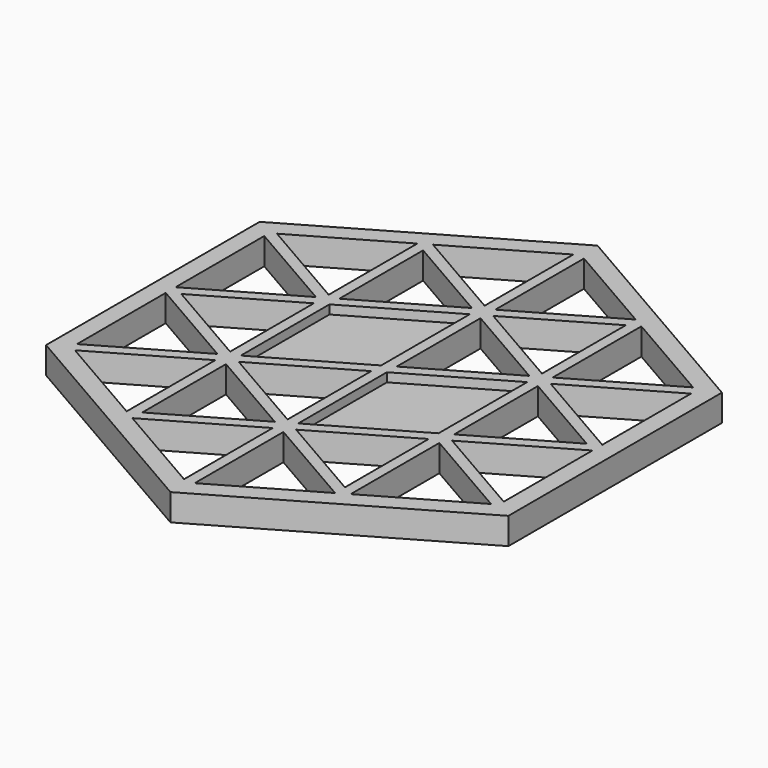
from build123d import *

# Parameters (mm, degrees)
F1_DEPTH = 3
F3_DEPTH = 2


with BuildPart() as f1:
    # F0 (on Top) → F1 (new body)
    with BuildSketch(Plane.XY):
        Polygon((25.980762, 15), (0, 30), (-25.980762, 15), (-25.980762, -15), (0, -30), (25.980762, -15), align=None)
        Polygon((-0.6, -14.88453), (-0.6, -27.344189), (-11.390381, -21.114359), align=None, mode=Mode.SUBTRACT)
        Polygon((-12.590381, -7.96188), (-12.590381, -20.421539), (-23.380762, -14.19171), align=None, mode=Mode.SUBTRACT)
        Polygon((-13.190381, -6.92265), (-23.980762, -13.152479), (-23.980762, -0.69282), align=None, mode=Mode.SUBTRACT)
        Polygon((-12.590381, -5.883419), (-22.780762, 0), (-12.590381, 5.883419), align=None, mode=Mode.SUBTRACT)
        Polygon((-1.2, -13.845299), (-11.390381, -19.728719), (-11.390381, -7.96188), align=None, mode=Mode.SUBTRACT)
        Polygon((-0.6, -1.03923), (-0.6, -12.806069), (-10.790381, -6.92265), align=None, mode=Mode.SUBTRACT)
        Polygon((0.6, -14.88453), (11.390381, -21.114359), (0.6, -27.344189), align=None, mode=Mode.SUBTRACT)
        Polygon((11.390381, -7.96188), (11.390381, -19.728719), (1.2, -13.845299), align=None, mode=Mode.SUBTRACT)
        Polygon((0.6, -12.806069), (0.6, -0.34641), (11.390381, 5.883419), (11.390381, -6.57624), align=None, mode=Mode.SUBTRACT)
        Polygon((12.590381, -7.96188), (23.380762, -14.19171), (12.590381, -20.421539), align=None, mode=Mode.SUBTRACT)
        Polygon((13.190381, -6.92265), (23.980762, -0.69282), (23.980762, -13.152479), align=None, mode=Mode.SUBTRACT)
        Polygon((-13.190381, 6.92265), (-23.980762, 0.69282), (-23.980762, 13.152479), align=None, mode=Mode.SUBTRACT)
        Polygon((-12.590381, 7.96188), (-23.380762, 14.19171), (-12.590381, 20.421539), align=None, mode=Mode.SUBTRACT)
        Polygon((-0.6, 12.806069), (-0.6, 0.34641), (-11.390381, -5.883419), (-11.390381, 6.57624), align=None, mode=Mode.SUBTRACT)
        Polygon((-11.390381, 19.728719), (-1.2, 13.845299), (-11.390381, 7.96188), align=None, mode=Mode.SUBTRACT)
        Polygon((-0.6, 14.88453), (-11.390381, 21.114359), (-0.6, 27.344189), align=None, mode=Mode.SUBTRACT)
        Polygon((0.6, 12.806069), (10.790381, 6.92265), (0.6, 1.03923), align=None, mode=Mode.SUBTRACT)
        Polygon((11.390381, 19.728719), (11.390381, 7.96188), (1.2, 13.845299), align=None, mode=Mode.SUBTRACT)
        Polygon((12.590381, 5.883419), (22.780762, 0), (12.590381, -5.883419), align=None, mode=Mode.SUBTRACT)
        Polygon((13.190381, 6.92265), (23.980762, 13.152479), (23.980762, 0.69282), align=None, mode=Mode.SUBTRACT)
        Polygon((12.590381, 7.96188), (12.590381, 20.421539), (23.380762, 14.19171), align=None, mode=Mode.SUBTRACT)
        Polygon((0.6, 14.88453), (0.6, 27.344189), (11.390381, 21.114359), align=None, mode=Mode.SUBTRACT)
    extrude(amount=F1_DEPTH)

    # F2 (on face) → F3 (join)
    with BuildSketch(Plane(origin=(0, 0, 0), x_dir=(1, 0, 0), z_dir=(0, 0, -1))):
        Polygon((-11.390381, -6.57624), (-0.6, -12.806069), (-0.6, -0.34641), (-11.390381, 5.883419), align=None)
        Polygon((0.6, 0.34641), (11.390381, -5.883419), (11.390381, 6.57624), (0.6, 12.806069), align=None)
    extrude(amount=-F3_DEPTH)


solid = f1.part
